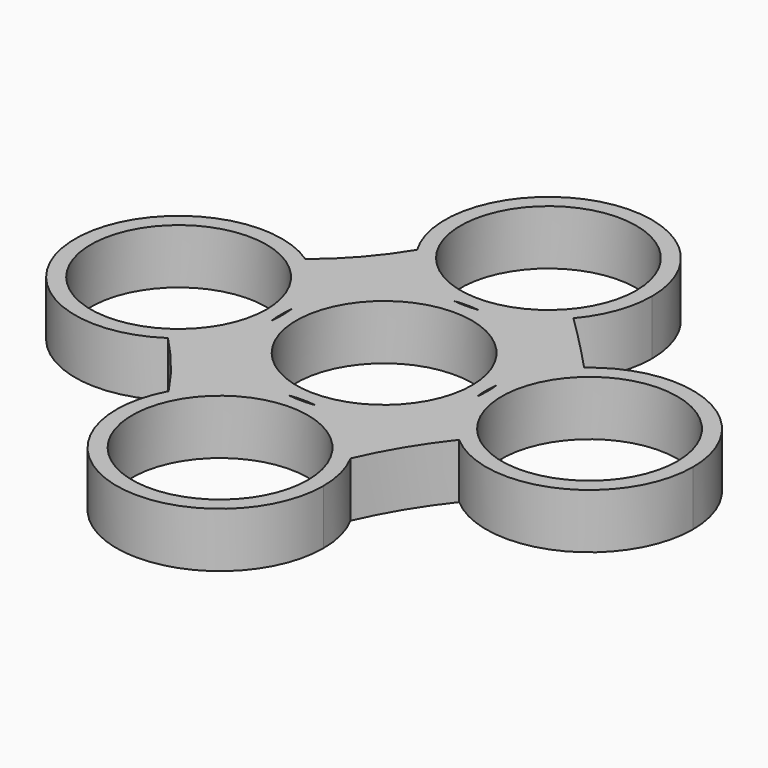
from build123d import *

# Parameters (mm, degrees)
F0_R     = 11.2
F1_DEPTH = 7


with BuildPart() as f1:
    # F0 (on Top) → F1 (new body)
    with BuildSketch(Plane.XY):
        with BuildLine():
            ThreePointArc((1.625641, 13.099515), (9.331043, 9.336575), (13.098549, 1.633405))
            ThreePointArc((13.098549, 1.633405), (14.54896, 6.209741), (17.540058, 9.964721))
            ThreePointArc((17.540058, 9.964721), (13.833044, 13.839076), (10.039052, 17.628298))
            ThreePointArc((10.039052, 17.628298), (6.256496, 14.575938), (1.625641, 13.099515))
        make_face()
        with BuildLine():
            ThreePointArc((13.098549, 1.633405), (13.174613, 0.818276), (13.2, 0))
            ThreePointArc((13.2, 0), (13.174613, -0.818276), (13.098549, -1.633405))
            ThreePointArc((13.098549, -1.633405), (14.548449, -6.208782), (17.538418, -9.963296))
            ThreePointArc((17.538418, -9.963296), (31.671832, -12.011132), (39.397098, 0))
            ThreePointArc((39.397098, 0), (31.672821, 12.010681), (17.540058, 9.964721))
            ThreePointArc((17.540058, 9.964721), (14.54896, 6.209741), (13.098549, 1.633405))
        make_face()
        with Locations((26.197098, 0)):
            Circle(F0_R, mode=Mode.SUBTRACT)
        with BuildLine():
            ThreePointArc((-1.625641, 13.099515), (0, 13.2), (1.625641, 13.099515))
            ThreePointArc((1.625641, 13.099515), (6.256496, 14.575938), (10.039052, 17.628298))
            ThreePointArc((10.039052, 17.628298), (12.384577, 21.631508), (13.2, 26.19903))
            ThreePointArc((13.2, 26.19903), (-3.51391, 38.922726), (-11.329158, 19.4248))
            ThreePointArc((-11.329158, 19.4248), (-7.20826, 15.140956), (-1.625641, 13.099515))
        make_face()
        with Locations((0, 26.19903)):
            Circle(F0_R, mode=Mode.SUBTRACT)
        with BuildLine():
            ThreePointArc((-13.103194, 1.595718), (-9.344462, 9.323144), (-1.625641, 13.099515))
            ThreePointArc((-1.625641, 13.099515), (-7.20826, 15.140956), (-11.329158, 19.4248))
            ThreePointArc((-11.329158, 19.4248), (-14.678509, 14.841206), (-18.770392, 10.906235))
            ThreePointArc((-18.770392, 10.906235), (-14.930927, 6.863235), (-13.103194, 1.595718))
        make_face()
        with BuildLine():
            ThreePointArc((-13.103194, -1.595718), (-13.2, 0), (-13.103194, 1.595718))
            ThreePointArc((-13.103194, 1.595718), (-14.930927, 6.863235), (-18.770392, 10.906235))
            ThreePointArc((-18.770392, 10.906235), (-39.406354, 0.029513), (-18.819234, -10.939377))
            ThreePointArc((-18.819234, -10.939377), (-14.9463, -6.888428), (-13.103194, -1.595718))
        make_face()
        with Locations((-26.206387, 0)):
            Circle(F0_R, mode=Mode.SUBTRACT)
        with BuildLine():
            ThreePointArc((13.098549, -1.633405), (12.997098, 0), (13.098549, 1.633405))
            ThreePointArc((13.098549, 1.633405), (9.331043, 9.336575), (1.625641, 13.099515))
            ThreePointArc((1.625641, 13.099515), (0, 12.99903), (-1.625641, 13.099515))
            ThreePointArc((-1.625641, 13.099515), (-9.344462, 9.323144), (-13.103194, 1.595718))
            ThreePointArc((-13.103194, 1.595718), (-13.030611, 0.799326), (-13.006387, 0))
            ThreePointArc((-13.006387, 0), (-13.030611, -0.799326), (-13.103194, -1.595718))
            ThreePointArc((-13.103194, -1.595718), (-9.403382, -9.263714), (-1.791606, -13.07785))
            ThreePointArc((-1.791606, -13.07785), (0, -12.955699), (1.791606, -13.07785))
            ThreePointArc((1.791606, -13.07785), (9.390048, -9.27723), (13.098549, -1.633405))
        make_face()
        Circle(F0_R, mode=Mode.SUBTRACT)
        with BuildLine():
            ThreePointArc((-11.598392, -19.853533), (-7.503365, -15.295703), (-1.791606, -13.07785))
            ThreePointArc((-1.791606, -13.07785), (-9.403382, -9.263714), (-13.103194, -1.595718))
            ThreePointArc((-13.103194, -1.595718), (-14.9463, -6.888428), (-18.819234, -10.939377))
            ThreePointArc((-18.819234, -10.939377), (-14.994912, -15.223186), (-11.598392, -19.853533))
        make_face()
        with BuildLine():
            ThreePointArc((11.598392, -19.853533), (7.503365, -15.295703), (1.791606, -13.07785))
            ThreePointArc((1.791606, -13.07785), (0, -13.2), (-1.791606, -13.07785))
            ThreePointArc((-1.791606, -13.07785), (-7.503365, -15.295703), (-11.598392, -19.853533))
            ThreePointArc((-11.598392, -19.853533), (-3.251248, -38.949033), (13.2, -26.155699))
            ThreePointArc((13.2, -26.155699), (12.793334, -22.904451), (11.598392, -19.853533))
        make_face()
        with Locations((0, -26.155699)):
            Circle(F0_R, mode=Mode.SUBTRACT)
        with BuildLine():
            ThreePointArc((17.538418, -9.963296), (14.548449, -6.208782), (13.098549, -1.633405))
            ThreePointArc((13.098549, -1.633405), (9.390048, -9.27723), (1.791606, -13.07785))
            ThreePointArc((1.791606, -13.07785), (7.503365, -15.295703), (11.598392, -19.853533))
            ThreePointArc((11.598392, -19.853533), (14.246289, -14.714953), (17.538418, -9.963296))
        make_face()
    extrude(amount=F1_DEPTH)


solid = f1.part
